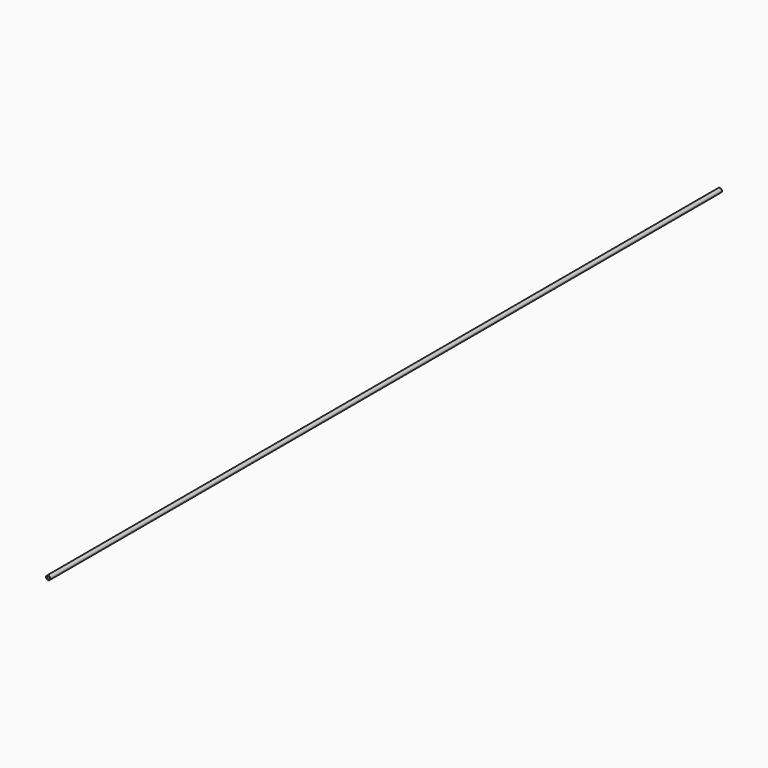
from build123d import *

# Parameters (mm, degrees)
F0_R     = 1.27
F0_R_2   = 0.762
F1_DEPTH = 508
F2_SIZE  = 0.254
F3_R     = 0.0508


with BuildPart() as f1:
    # F0 (on Front) → F1 (new body)
    with BuildSketch(Plane.XZ):
        Circle(F0_R)
        Circle(F0_R_2, mode=Mode.SUBTRACT)
    extrude(amount=F1_DEPTH)

    # F2
    f2_edges = [f1.edges().sort_by_distance(p)[0] for p in [
        (-0.762, 0, 0),
    ]]
    chamfer(f2_edges, length=F2_SIZE)

    # F3
    f3_edges = [f1.edges().sort_by_distance(p)[0] for p in [
        (-1.27, 0, 0),
    ]]
    fillet(f3_edges, radius=F3_R)


solid = f1.part
